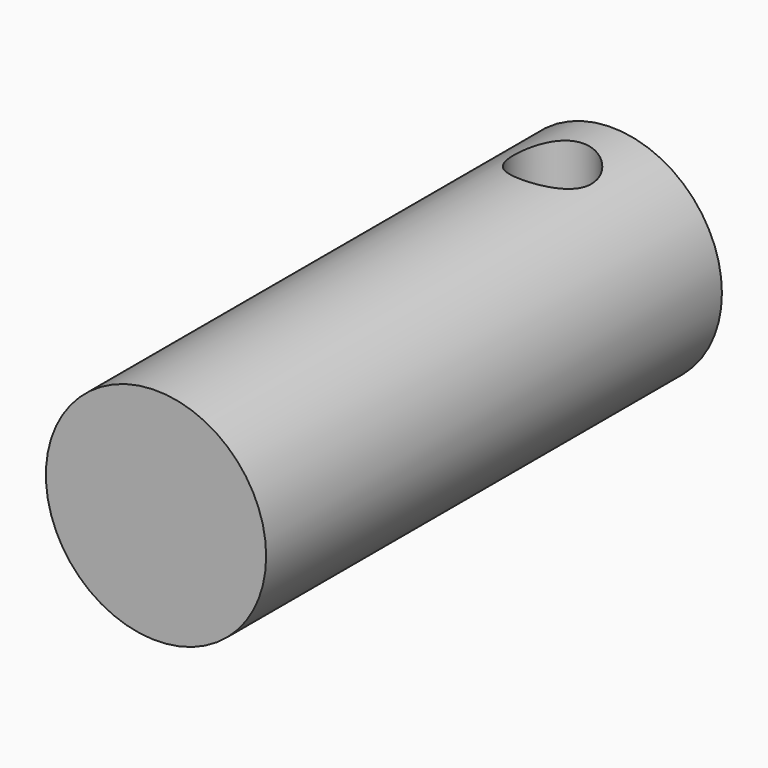
from build123d import *

# Parameters (mm, degrees)
F0_R     = 14.5
F1_DEPTH = 37.5
F2_R     = 5.118436
F3_DEPTH = 15


with BuildPart() as f1:
    # F0 (on Front) → F1 (new body, symmetric)
    with BuildSketch(Plane.XZ):
        Circle(F0_R)
    extrude(amount=F1_DEPTH, both=True)

    # F2 (on Top) → F3 (cut, symmetric)
    with BuildSketch(Plane.XY):
        with Locations((0, 27.751384)):
            Circle(F2_R)
    extrude(amount=F3_DEPTH, both=True, mode=Mode.SUBTRACT)


solid = f1.part
